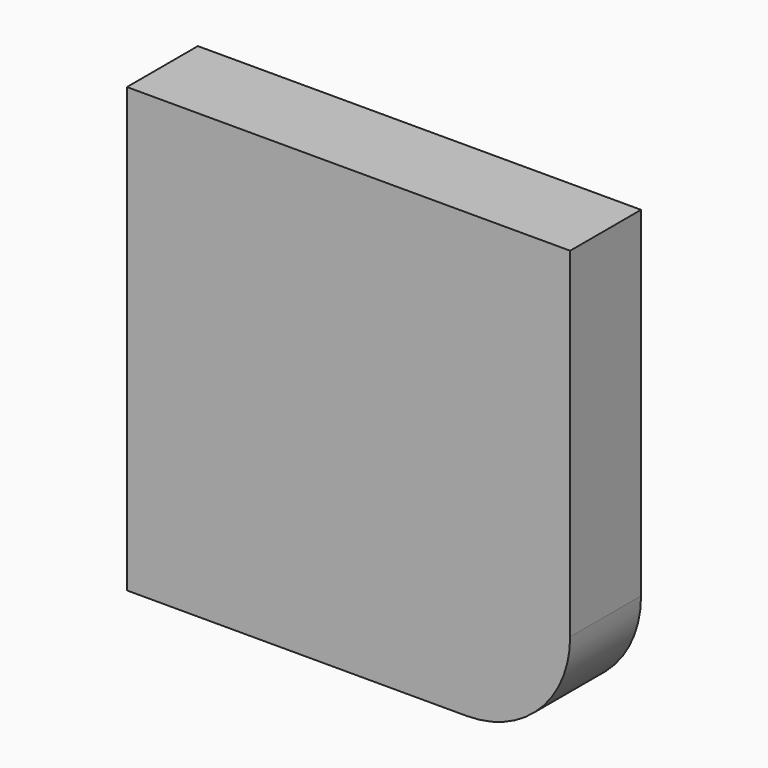
from build123d import *

# Parameters (mm, degrees)
F0_W     = 100
F0_H     = 100
F1_DEPTH = 20
F2_R     = 23.301989
F3_R     = 15.126454
F4_DEPTH = 20


with BuildPart() as f1:
    # F0 (on Front) → F1 (new body)
    with BuildSketch(Plane.XZ):
        Rectangle(F0_W, F0_H)
    extrude(amount=F1_DEPTH)

    # F2
    f2_edges = [f1.edges().sort_by_distance(p)[0] for p in [
        (50, -10, -50),
    ]]
    fillet(f2_edges, radius=F2_R)

    # F3 (on Front) → F4 (join)
    with BuildSketch(Plane.XZ):
        with Locations((24.664735, -23.76237)):
            Circle(F3_R)
    extrude(amount=F4_DEPTH)


solid = f1.part
